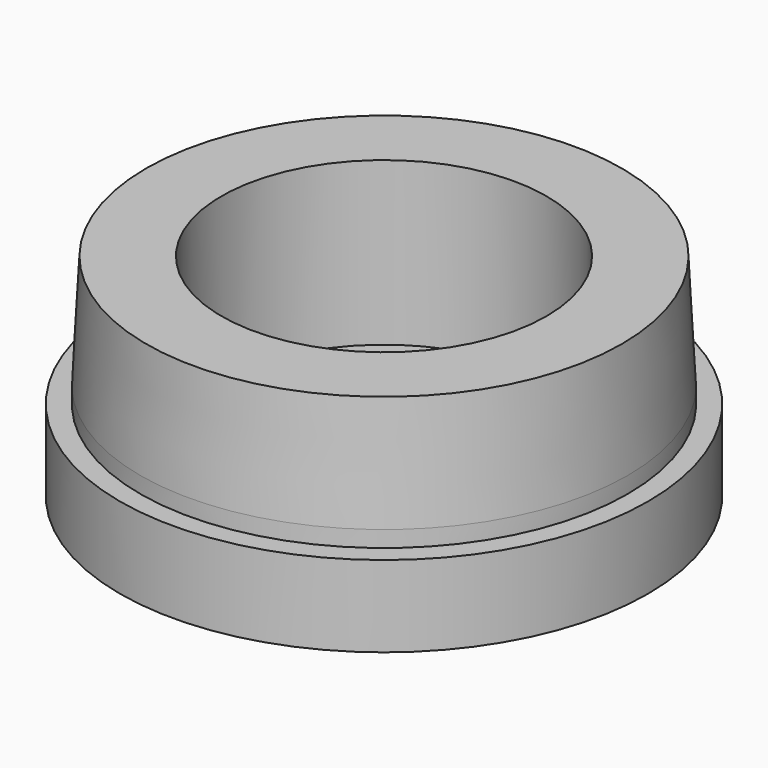
from build123d import *

# Parameters (mm, degrees)
CHAMFER001_ANGLE = 3
CHAMFER001_SIZE  = 7
SKETCH001_W      = 10
SKETCH001_H      = 25.260876


with BuildPart() as part:
    # Sketch052 → Revolution001 (revolve)
    with BuildSketch(Plane.XZ):
        Polygon((0, 0), (16.25, 0), (16.25, 5), (15, 5), (15, 13), (0, 13), align=None)
    revolve(axis=Axis((0, 0, 0), (0, 0, 1)))

    # Chamfer001
    chamfer001_edges = [part.edges().sort_by_distance(p)[0] for p in [
        (-15, 0, 13),
    ]]
    chamfer001_side = part.faces().sort_by_distance((-15, 0, 9))[0]
    chamfer(chamfer001_edges, length=CHAMFER001_SIZE, angle=CHAMFER001_ANGLE, reference=chamfer001_side)

    # Sketch001 → Groove001 (revolve, cut)
    with BuildSketch(Plane.XZ):
        with Locations((5, 15.630438)):
            Rectangle(SKETCH001_W, SKETCH001_H)
    revolve(axis=Axis((0, 0, 0), (0, 0, 1)), mode=Mode.SUBTRACT)


solid = part.part
